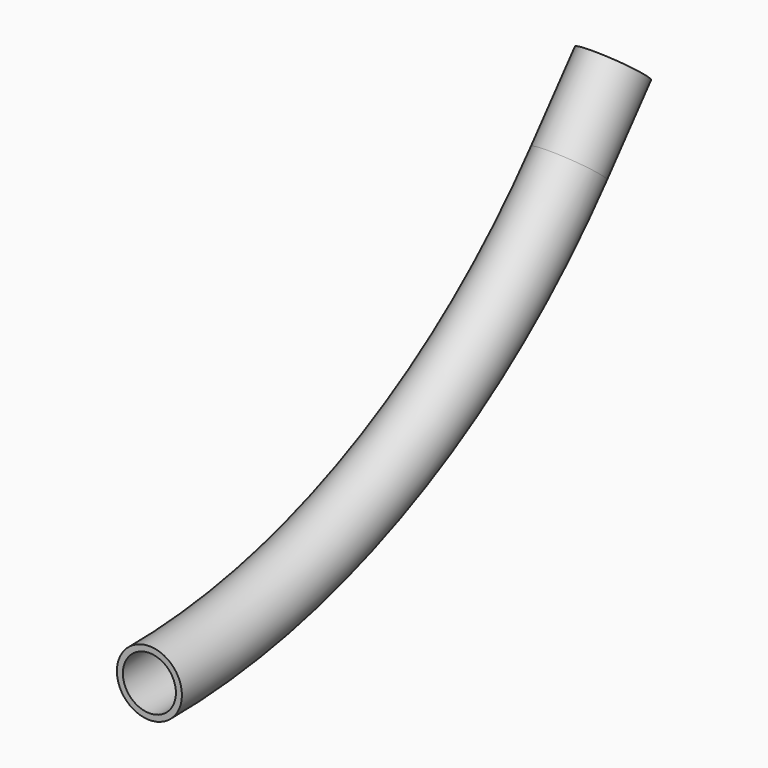
from build123d import *

# Parameters (mm, degrees)
F0_R   = 19
F0_R_2 = 15.5


with BuildPart() as f2:
    # F2: sweep along a path in F1
    with BuildLine(Plane.YZ) as f2_path:
        ThreePointArc((0, 0), (169.047305, 37.476885), (306.417777, 142.884956))
        Line((306.417777, 142.884956), (338.557158, 181.187178))
    # F0 (on Front) → F2 (sweep)
    with BuildSketch(Plane.XZ):
        Circle(F0_R)
        Circle(F0_R_2, mode=Mode.SUBTRACT)
    sweep(path=f2_path.line)


solid = f2.part
